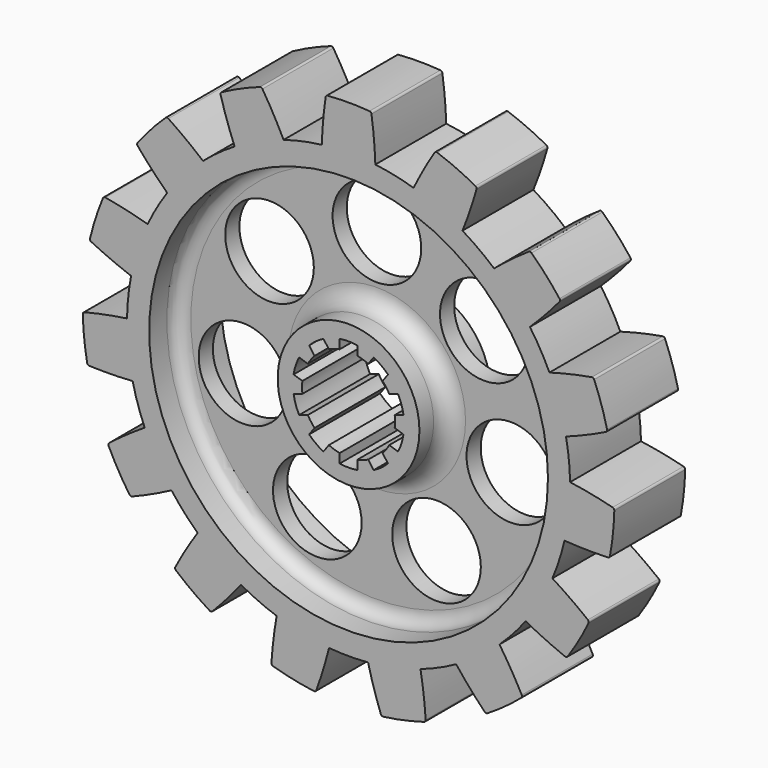
from build123d import *

# Parameters (mm, degrees)
F1_DEPTH = 20
F2_R     = 10
F3_DEPTH = 25
F4_R     = 45
F4_R_2   = 10
F4_R_3   = 16
F5_DEPTH = 8
F6_R     = 45
F6_R_2   = 16
F7_DEPTH = 8
F8_R     = 3
F9_R     = 4
F10_R    = 0.5


with BuildPart() as f1:
    # F0 (on Front) → F1 (new body)
    with BuildSketch(Plane.XZ):
        with BuildLine():
            ThreePointArc((-49.215093, -34.320178), (-44.527523, -32.31723), (-39.960872, -30.0521))
            ThreePointArc((-39.960872, -30.0521), (-43.30127, -25), (-46.006318, -19.581081))
            ThreePointArc((-46.006318, -19.581081), (-50.251304, -22.403351), (-54.329692, -25.461432))
            ThreePointArc((-54.329692, -25.461432), (-51.961524, -30), (-49.215093, -34.320178))
        make_face()
        with BuildLine():
            ThreePointArc((-7.426463, -59.538623), (-5.778346, -54.714846), (-4.40598, -49.805495))
            ThreePointArc((-4.40598, -49.805495), (-10.395585, -48.90738), (-16.232657, -47.291657))
            ThreePointArc((-16.232657, -47.291657), (-16.975751, -52.334764), (-17.432128, -57.411853))
            ThreePointArc((-17.432128, -57.411853), (-12.474701, -58.688856), (-7.426463, -59.538623))
        make_face()
        with BuildLine():
            ThreePointArc((-40.929834, 28.718438), (-37.157241, 33.45653), (-32.839448, 37.703722))
            ThreePointArc((-32.839448, 37.703722), (-36.83536, 40.868814), (-41.004059, 43.802593))
            ThreePointArc((-41.004059, 43.802593), (-44.58869, 40.147836), (-47.848729, 36.200817))
            ThreePointArc((-47.848729, 36.200817), (-44.495273, 32.361618), (-40.929834, 28.718438))
        make_face()
        with BuildLine():
            ThreePointArc((-49.072105, 9.587936), (-47.552826, 15.45085), (-45.335814, 21.087057))
            ThreePointArc((-45.335814, 21.087057), (-50.27362, 22.353228), (-55.275192, 23.337806))
            ThreePointArc((-55.275192, 23.337806), (-57.063391, 18.54102), (-58.436188, 13.609261))
            ThreePointArc((-58.436188, 13.609261), (-53.811111, 11.465951), (-49.072105, 9.587936))
        make_face()
        with BuildLine():
            ThreePointArc((-58.919499, -11.335461), (-53.822518, -11.412283), (-48.729363, -11.200408))
            ThreePointArc((-48.729363, -11.200408), (-49.726095, -5.226423), (-49.993206, 0.824248))
            ThreePointArc((-49.993206, 0.824248), (-55.019114, -0.027433), (-59.988741, -1.162299))
            ThreePointArc((-59.988741, -1.162299), (-59.671314, -6.271708), (-58.919499, -11.335461))
        make_face()
        with BuildLine():
            ThreePointArc((-31.000951, -51.370624), (-27.533315, -47.634234), (-24.282783, -43.70751))
            ThreePointArc((-24.282783, -43.70751), (-29.389263, -40.45085), (-34.06452, -36.600663))
            ThreePointArc((-34.06452, -36.600663), (-36.794586, -40.905526), (-39.276546, -45.358052))
            ThreePointArc((-39.276546, -45.358052), (-35.267115, -48.54102), (-31.000951, -51.370624))
        make_face()
        with BuildLine():
            ThreePointArc((48.729363, -11.200408), (49.681325, -5.636126), (50, 0))
            ThreePointArc((50, 0), (49.998301, 0.412138), (49.993206, 0.824248))
            ThreePointArc((49.993206, 0.824248), (49.726095, 5.226423), (49.072105, 9.587936))
            ThreePointArc((49.072105, 9.587936), (47.552826, 15.45085), (45.335814, 21.087057))
            ThreePointArc((45.335814, 21.087057), (43.30127, 25), (40.929834, 28.718438))
            ThreePointArc((40.929834, 28.718438), (37.157241, 33.45653), (32.839448, 37.703722))
            ThreePointArc((32.839448, 37.703722), (29.389263, 40.45085), (25.710422, 42.883262))
            ThreePointArc((25.710422, 42.883262), (20.336832, 45.677273), (14.664844, 47.801071))
            ThreePointArc((14.664844, 47.801071), (10.395585, 48.90738), (6.045446, 49.63318))
            ThreePointArc((6.045446, 49.63318), (0, 50), (-6.045446, 49.63318))
            ThreePointArc((-6.045446, 49.63318), (-10.395585, 48.90738), (-14.664844, 47.801071))
            ThreePointArc((-14.664844, 47.801071), (-20.336832, 45.677273), (-25.710422, 42.883262))
            ThreePointArc((-25.710422, 42.883262), (-29.389263, 40.45085), (-32.839448, 37.703722))
            ThreePointArc((-32.839448, 37.703722), (-37.157241, 33.45653), (-40.929834, 28.718438))
            ThreePointArc((-40.929834, 28.718438), (-43.30127, 25), (-45.335814, 21.087057))
            ThreePointArc((-45.335814, 21.087057), (-47.552826, 15.45085), (-49.072105, 9.587936))
            ThreePointArc((-49.072105, 9.587936), (-49.726095, 5.226423), (-49.993206, 0.824248))
            ThreePointArc((-49.993206, 0.824248), (-49.726095, -5.226423), (-48.729363, -11.200408))
            ThreePointArc((-48.729363, -11.200408), (-47.552826, -15.45085), (-46.006318, -19.581081))
            ThreePointArc((-46.006318, -19.581081), (-43.30127, -25), (-39.960872, -30.0521))
            ThreePointArc((-39.960872, -30.0521), (-37.157241, -33.45653), (-34.06452, -36.600663))
            ThreePointArc((-34.06452, -36.600663), (-29.389263, -40.45085), (-24.282783, -43.70751))
            ThreePointArc((-24.282783, -43.70751), (-20.336832, -45.677273), (-16.232657, -47.291657))
            ThreePointArc((-16.232657, -47.291657), (-10.395585, -48.90738), (-4.40598, -49.805495))
            ThreePointArc((-4.40598, -49.805495), (0, -50), (4.40598, -49.805495))
            ThreePointArc((4.40598, -49.805495), (10.395585, -48.90738), (16.232657, -47.291657))
            ThreePointArc((16.232657, -47.291657), (20.336832, -45.677273), (24.282783, -43.70751))
            ThreePointArc((24.282783, -43.70751), (29.389263, -40.45085), (34.06452, -36.600663))
            ThreePointArc((34.06452, -36.600663), (37.157241, -33.45653), (39.960872, -30.0521))
            ThreePointArc((39.960872, -30.0521), (43.30127, -25), (46.006318, -19.581081))
            ThreePointArc((46.006318, -19.581081), (47.552826, -15.45085), (48.729363, -11.200408))
        make_face()
        with BuildLine():
            ThreePointArc((-9.185232, 5.087387), (-8.494678, 6.171745), (-7.676786, 7.163586))
            Line((-7.676786, 7.163586), (-8.900466, 8.847837))
            ThreePointArc((-8.900466, 8.847837), (-7.376705, 10.153163), (-5.664398, 11.198978))
            Line((-5.664398, 11.198978), (-4.440718, 9.514727))
            ThreePointArc((-4.440718, 9.514727), (-3.244678, 9.986093), (-2, 10.307764))
            Line((-2, 10.307764), (-2, 12.389613))
            ThreePointArc((-2, 12.389613), (0, 12.55), (2, 12.389613))
            Line((2, 12.389613), (2, 10.307764))
            ThreePointArc((2, 10.307764), (3.244678, 9.986093), (4.440718, 9.514727))
            Line((4.440718, 9.514727), (5.664398, 11.198978))
            ThreePointArc((5.664398, 11.198978), (7.376705, 10.153163), (8.900466, 8.847837))
            Line((8.900466, 8.847837), (7.676786, 7.163586))
            ThreePointArc((7.676786, 7.163586), (8.494678, 6.171745), (9.185232, 5.087387))
            Line((9.185232, 5.087387), (11.165188, 5.730714))
            ThreePointArc((11.165188, 5.730714), (11.935759, 3.878163), (12.401256, 1.926488))
            Line((12.401256, 1.926488), (10.4213, 1.283161))
            ThreePointArc((10.4213, 1.283161), (10.5, 0), (10.4213, -1.283161))
            Line((10.4213, -1.283161), (12.401256, -1.926488))
            ThreePointArc((12.401256, -1.926488), (11.935759, -3.878163), (11.165188, -5.730714))
            Line((11.165188, -5.730714), (9.185232, -5.087387))
            ThreePointArc((9.185232, -5.087387), (8.494678, -6.171745), (7.676786, -7.163586))
            Line((7.676786, -7.163586), (8.900466, -8.847837))
            ThreePointArc((8.900466, -8.847837), (7.376705, -10.153163), (5.664398, -11.198978))
            Line((5.664398, -11.198978), (4.440718, -9.514727))
            ThreePointArc((4.440718, -9.514727), (3.244678, -9.986093), (2, -10.307764))
            Line((2, -10.307764), (2, -12.389613))
            ThreePointArc((2, -12.389613), (0, -12.55), (-2, -12.389613))
            Line((-2, -12.389613), (-2, -10.307764))
            ThreePointArc((-2, -10.307764), (-3.244678, -9.986093), (-4.440718, -9.514727))
            Line((-4.440718, -9.514727), (-5.664398, -11.198978))
            ThreePointArc((-5.664398, -11.198978), (-7.376705, -10.153163), (-8.900466, -8.847837))
            Line((-8.900466, -8.847837), (-7.676786, -7.163586))
            ThreePointArc((-7.676786, -7.163586), (-8.494678, -6.171745), (-9.185232, -5.087387))
            Line((-9.185232, -5.087387), (-11.165188, -5.730714))
            ThreePointArc((-11.165188, -5.730714), (-11.935759, -3.878163), (-12.401256, -1.926488))
            Line((-12.401256, -1.926488), (-10.4213, -1.283161))
            ThreePointArc((-10.4213, -1.283161), (-10.5, 0), (-10.4213, 1.283161))
            Line((-10.4213, 1.283161), (-12.401256, 1.926488))
            ThreePointArc((-12.401256, 1.926488), (-11.935759, 3.878163), (-11.165188, 5.730714))
            Line((-11.165188, 5.730714), (-9.185232, 5.087387))
        make_face(mode=Mode.SUBTRACT)
        with BuildLine():
            ThreePointArc((39.276546, -45.358052), (36.794586, -40.905526), (34.06452, -36.600663))
            ThreePointArc((34.06452, -36.600663), (29.389263, -40.45085), (24.282783, -43.70751))
            ThreePointArc((24.282783, -43.70751), (27.533315, -47.634234), (31.000951, -51.370624))
            ThreePointArc((31.000951, -51.370624), (35.267115, -48.54102), (39.276546, -45.358052))
        make_face()
        with BuildLine():
            ThreePointArc((-25.710422, 42.883262), (-20.336832, 45.677273), (-14.664844, 47.801071))
            ThreePointArc((-14.664844, 47.801071), (-17.027932, 52.31781), (-19.642953, 56.693513))
            ThreePointArc((-19.642953, 56.693513), (-24.404199, 54.812727), (-28.98779, 52.532923))
            ThreePointArc((-28.98779, 52.532923), (-27.485799, 47.661667), (-25.710422, 42.883262))
        make_face()
        with BuildLine():
            ThreePointArc((17.432128, -57.411853), (16.975751, -52.334764), (16.232657, -47.291657))
            ThreePointArc((16.232657, -47.291657), (10.395585, -48.90738), (4.40598, -49.805495))
            ThreePointArc((4.40598, -49.805495), (5.778346, -54.714846), (7.426463, -59.538623))
            ThreePointArc((7.426463, -59.538623), (12.474701, -58.688856), (17.432128, -57.411853))
        make_face()
        with BuildLine():
            ThreePointArc((-6.045446, 49.63318), (0, 50), (6.045446, 49.63318))
            ThreePointArc((6.045446, 49.63318), (5.723781, 54.720581), (5.114599, 59.78161))
            ThreePointArc((5.114599, 59.78161), (0, 60), (-5.114599, 59.78161))
            ThreePointArc((-5.114599, 59.78161), (-5.723781, 54.720581), (-6.045446, 49.63318))
        make_face()
        with BuildLine():
            ThreePointArc((14.664844, 47.801071), (20.336832, 45.677273), (25.710422, 42.883262))
            ThreePointArc((25.710422, 42.883262), (27.485799, 47.661667), (28.98779, 52.532923))
            ThreePointArc((28.98779, 52.532923), (24.404199, 54.812727), (19.642953, 56.693513))
            ThreePointArc((19.642953, 56.693513), (17.027932, 52.31781), (14.664844, 47.801071))
        make_face()
        with BuildLine():
            ThreePointArc((32.839448, 37.703722), (37.157241, 33.45653), (40.929834, 28.718438))
            ThreePointArc((40.929834, 28.718438), (44.495273, 32.361618), (47.848729, 36.200817))
            ThreePointArc((47.848729, 36.200817), (44.58869, 40.147836), (41.004059, 43.802593))
            ThreePointArc((41.004059, 43.802593), (36.83536, 40.868814), (32.839448, 37.703722))
        make_face()
        with BuildLine():
            ThreePointArc((45.335814, 21.087057), (47.552826, 15.45085), (49.072105, 9.587936))
            ThreePointArc((49.072105, 9.587936), (53.811111, 11.465951), (58.436188, 13.609261))
            ThreePointArc((58.436188, 13.609261), (57.063391, 18.54102), (55.275192, 23.337806))
            ThreePointArc((55.275192, 23.337806), (50.27362, 22.353228), (45.335814, 21.087057))
        make_face()
        with BuildLine():
            ThreePointArc((49.993206, 0.824248), (49.998301, 0.412138), (50, 0))
            ThreePointArc((50, 0), (49.681325, -5.636126), (48.729363, -11.200408))
            ThreePointArc((48.729363, -11.200408), (53.822518, -11.412283), (58.919499, -11.335461))
            ThreePointArc((58.919499, -11.335461), (59.671314, -6.271708), (59.988741, -1.162299))
            ThreePointArc((59.988741, -1.162299), (55.019114, -0.027433), (49.993206, 0.824248))
        make_face()
        with BuildLine():
            ThreePointArc((54.329692, -25.461432), (50.251304, -22.403351), (46.006318, -19.581081))
            ThreePointArc((46.006318, -19.581081), (43.30127, -25), (39.960872, -30.0521))
            ThreePointArc((39.960872, -30.0521), (44.527523, -32.31723), (49.215093, -34.320178))
            ThreePointArc((49.215093, -34.320178), (51.961524, -30), (54.329692, -25.461432))
        make_face()
    extrude(amount=F1_DEPTH)

    # F2 (on face) → F3 (cut)
    with BuildSketch(Plane.XZ.offset(20)):
        with Locations((-24.236776, 19.328184)):
            Circle(F2_R)
        with Locations((0, 31)):
            Circle(F2_R)
        with Locations((24.236776, 19.328184)):
            Circle(F2_R)
        with Locations((30.222765, -6.898149)):
            Circle(F2_R)
        with Locations((13.450396, -27.930035)):
            Circle(F2_R)
        with Locations((-13.450396, -27.930035)):
            Circle(F2_R)
        with Locations((-30.222765, -6.898149)):
            Circle(F2_R)
    extrude(amount=-F3_DEPTH, mode=Mode.SUBTRACT)

    # F4 (on face) → F5 (cut)
    with BuildSketch(Plane(origin=(0, 0, 0), x_dir=(-1, 0, 0), z_dir=(0, 1, 0))):
        Circle(F4_R)
        with Locations((-30.222765, -6.898149)):
            Circle(F4_R_2, mode=Mode.SUBTRACT)
        with Locations((-13.450396, -27.930035)):
            Circle(F4_R_2, mode=Mode.SUBTRACT)
        Circle(F4_R_3, mode=Mode.SUBTRACT)
        with Locations((13.450396, -27.930035)):
            Circle(F4_R_2, mode=Mode.SUBTRACT)
        with Locations((30.222765, -6.898149)):
            Circle(F4_R_2, mode=Mode.SUBTRACT)
        with Locations((-24.236776, 19.328184)):
            Circle(F4_R_2, mode=Mode.SUBTRACT)
        with Locations((0, 31)):
            Circle(F4_R_2, mode=Mode.SUBTRACT)
        with Locations((24.236776, 19.328184)):
            Circle(F4_R_2, mode=Mode.SUBTRACT)
    extrude(amount=-F5_DEPTH, mode=Mode.SUBTRACT)

    # F6 (on face) → F7 (cut)
    with BuildSketch(Plane.XZ.offset(20)):
        Circle(F6_R)
        Circle(F6_R_2, mode=Mode.SUBTRACT)
    extrude(amount=-F7_DEPTH, mode=Mode.SUBTRACT)

    # F8
    f8_edges = [f1.edges().sort_by_distance(p)[0] for p in [
        (45, -8, 0),
        (-45, -12, 0),
    ]]
    fillet(f8_edges, radius=F8_R)

    # F9
    f9_edges = [f1.edges().sort_by_distance(p)[0] for p in [
        (16, -8, 0),
        (-16, -12, 0),
    ]]
    fillet(f9_edges, radius=F9_R)

    # F10
    f10_edges = [f1.edges().sort_by_distance(p)[0] for p in [
        (-5.114599, -10, 59.78161),
        (5.114599, -10, 59.78161),
        (-19.642953, -10, 56.693513),
        (-41.004059, -10, 43.802593),
        (-47.848729, -10, 36.200817),
        (-55.275192, -10, 23.337806),
        (-58.436188, -10, 13.609261),
        (-59.988741, -10, -1.162299),
        (-58.919499, -10, -11.335461),
        (-54.329692, -10, -25.461432),
        (-49.215093, -10, -34.320178),
        (-39.276546, -10, -45.358052),
        (-31.000951, -10, -51.370624),
        (-17.432128, -10, -57.411853),
        (-7.426463, -10, -59.538623),
        (19.642953, -10, 56.693513),
        (28.98779, -10, 52.532923),
        (41.004059, -10, 43.802593),
        (47.848729, -10, 36.200817),
        (55.275192, -10, 23.337806),
        (58.436188, -10, 13.609261),
        (59.988741, -10, -1.162299),
        (58.919499, -10, -11.335461),
        (54.329692, -10, -25.461432),
        (49.215093, -10, -34.320178),
        (39.276546, -10, -45.358052),
        (31.000951, -10, -51.370624),
        (17.432128, -10, -57.411853),
        (7.426463, -10, -59.538623),
        (-28.98779, -10, 52.532923),
    ]]
    fillet(f10_edges, radius=F10_R)


solid = f1.part
